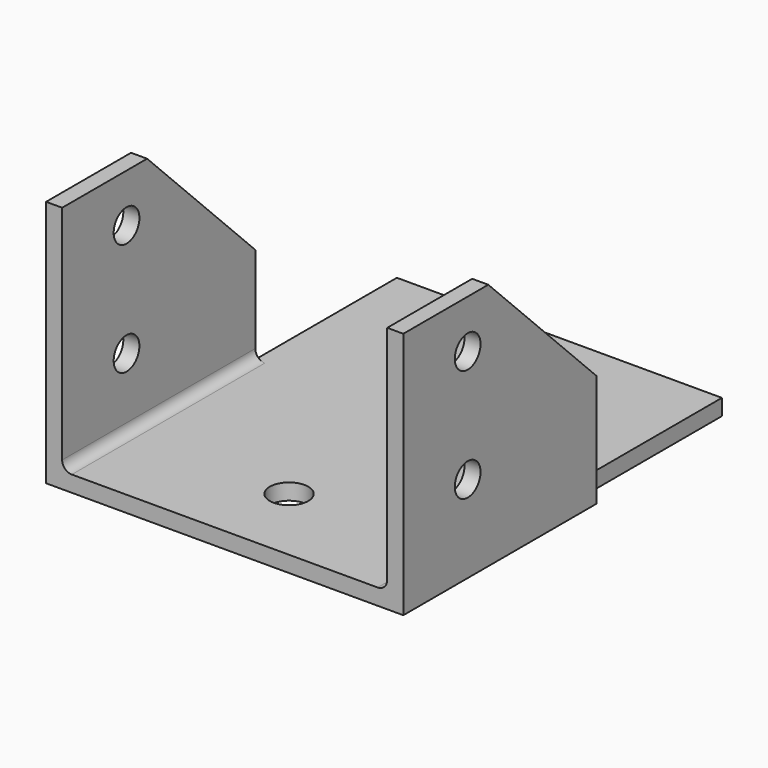
from build123d import *

# Parameters (mm, degrees)
F1_DEPTH = 77
F2_DEPTH = 5
F3_SIZE  = 42
F4_R     = 5
F5_DEPTH = 1000
F7_DEPTH = 10000


with BuildPart() as f1:
    # F0 (on Top) → F1 (new body)
    with BuildSketch(Plane.XY):
        Polygon((-53.768117, 18.507083), (-53.768117, -56.492917), (1.731883, -56.492917), (57.231883, -56.492917), (57.231883, -30.815218), (57.231883, 18.507083), (52.231883, 18.507083), (-48.768117, 18.507083), align=None)
        with BuildLine():
            ThreePointArc((7.731883, -31.492917), (5.974524, -35.735557), (1.731883, -37.492917))
            ThreePointArc((1.731883, -37.492917), (-2.510758, -27.250276), (7.731883, -31.492917))
        make_face(mode=Mode.SUBTRACT)
    extrude(amount=F1_DEPTH)

    # F0 (on Top) → F2 (join)
    with BuildSketch(Plane.XY):
        Polygon((-48.768117, 73.507083), (-48.768117, 18.507083), (52.231883, 18.507083), (52.231883, 73.507083), (23.231883, 73.507083), (-19.768117, 73.507083), align=None)
        with BuildLine():
            ThreePointArc((-13.768117, 48.507083), (-24.010758, 44.264443), (-19.768117, 54.507083))
            ThreePointArc((-19.768117, 54.507083), (-15.525476, 52.749724), (-13.768117, 48.507083))
        make_face(mode=Mode.SUBTRACT)
        with BuildLine():
            ThreePointArc((29.231883, 48.507083), (18.989242, 44.264443), (23.231883, 54.507083))
            ThreePointArc((23.231883, 54.507083), (27.474524, 52.749724), (29.231883, 48.507083))
        make_face(mode=Mode.SUBTRACT)
    extrude(amount=F2_DEPTH)

    # F3
    f3_edges = [f1.edges().sort_by_distance(p)[0] for p in [
        (1.731883, 18.507083, 77),
    ]]
    chamfer(f3_edges, length=F3_SIZE)

    # F4 (on face) → F5 (cut)
    with BuildSketch(Plane(origin=(-53.768117, 0, 0), x_dir=(0, -1, 0), z_dir=(-1, 0, 0))):
        with Locations((31.492917, 27)):
            Circle(F4_R)
        with Locations((31.492917, 62)):
            Circle(F4_R)
    extrude(amount=-F5_DEPTH, mode=Mode.SUBTRACT)

    # F6 (on face) → F7 (cut)
    with BuildSketch(Plane.XZ.offset(56.492917)):
        with BuildLine():
            Line((52.231883, 77), (-48.768117, 77))
            Line((-48.768117, 77), (-48.768117, 8))
            ThreePointArc((-48.768117, 8), (-47.889437, 5.87868), (-45.768117, 5))
            Line((-45.768117, 5), (49.231883, 5))
            ThreePointArc((49.231883, 5), (51.353203, 5.87868), (52.231883, 8))
            Line((52.231883, 8), (52.231883, 77))
        make_face()
    extrude(amount=-F7_DEPTH, mode=Mode.SUBTRACT)


solid = f1.part
